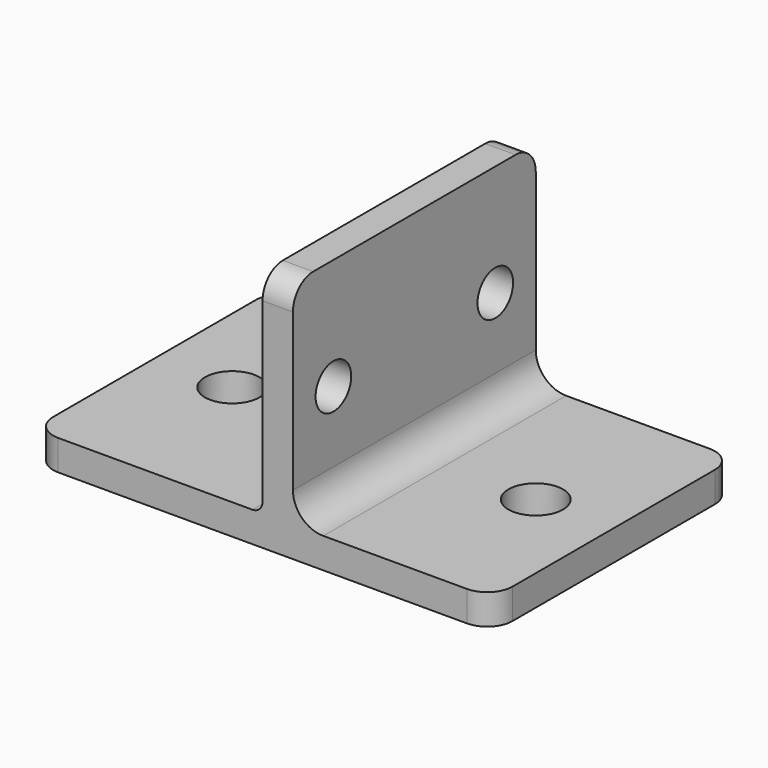
from build123d import *

# Parameters (mm, degrees)
PAD_DEPTH            = 3
PAD_MIRRORED_2_DEPTH = 3
SKETCH001_R          = 2.2
PAD001_DEPTH         = 3
FILLET_R             = 1
FILLET001_R          = 3


with BuildPart() as part:
    # Sketch → Pad (new body)
    with BuildSketch(Plane.XY):
        with BuildLine():
            Line((0, 0), (12.3, 0))
            ThreePointArc((17.7, 0), (15, 2.7), (12.3, 0))
            Line((17.7, 0), (22.7, 0))
            Line((22.7, 0), (22.7, 12.5))
            ThreePointArc((22.7, 12.5), (21.967767, 14.267767), (20.2, 15))
            Line((20.2, 15), (0, 15))
            Line((0, 15), (0, 0))
        make_face()
    pad = extrude(amount=-PAD_DEPTH)

    # Sketch Mirrored 2 → Pad Mirrored 2 (add)
    with BuildSketch(Plane(origin=(0, 0, 0), x_dir=(-1, 0, 0), z_dir=(0, 0, -1))):
        with BuildLine():
            Line((0, 0), (12.3, 0))
            ThreePointArc((17.7, 0), (15, 2.7), (12.3, 0))
            Line((17.7, 0), (22.7, 0))
            Line((22.7, 0), (22.7, 12.5))
            ThreePointArc((22.7, 12.5), (21.967767, 14.267767), (20.2, 15))
            Line((20.2, 15), (0, 15))
            Line((0, 15), (0, 0))
        make_face()
    pad_mirrored_2 = extrude(amount=PAD_MIRRORED_2_DEPTH)

    # Mirrored001: Pad, Pad Mirrored 2 across Sketch H_Axis
    add(pad.mirror(Plane.ZX))
    add(pad_mirrored_2.mirror(Plane.ZX))

    # Sketch001 → Pad001 (join)
    with BuildSketch(Plane.YZ):
        with BuildLine():
            Line((0, 0), (15, 0))
            Line((15, 0), (15, 18.5))
            ThreePointArc((15, 18.5), (14.267767, 20.267767), (12.5, 21))
            Line((12.5, 21), (0, 21))
            Line((0, 21), (0, 0))
        make_face()
        with Locations((10, 10)):
            Circle(SKETCH001_R, mode=Mode.SUBTRACT)
    pad001 = extrude(amount=PAD001_DEPTH)

    # Mirrored002: Pad001 across Sketch001 V_Axis
    add(pad001.mirror(Plane(origin=(0, 0, 0), x_dir=(1, 0, 0), z_dir=(0, 1, 0))))

    # Fillet
    fillet_edges = [part.edges().sort_by_distance(p)[0] for p in [
        (0, -7.5, 0),
    ]]
    fillet(fillet_edges, radius=FILLET_R)

    # Fillet001
    fillet001_edges = [part.edges().sort_by_distance(p)[0] for p in [
        (3, -7.5, 0),
    ]]
    fillet(fillet001_edges, radius=FILLET001_R)


solid = part.part
